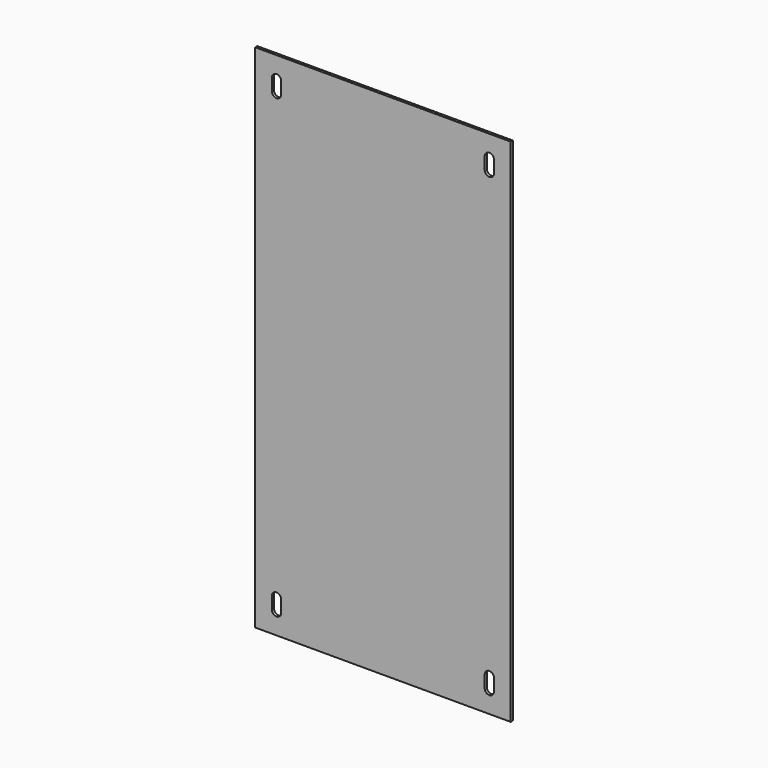
from build123d import *

# Parameters (mm, degrees)
F0_W     = 304.8
F0_H     = 609.6
F1_DEPTH = 3.175


with BuildPart() as f1:
    # F0 (on Front) → F1 (new body)
    with BuildSketch(Plane.XZ):
        Rectangle(F0_W, F0_H)
        with BuildLine():
            ThreePointArc((-121.44375, -279.4), (-127, -284.95625), (-132.55625, -279.4))
            Line((-132.55625, -279.4), (-132.55625, -265.1125))
            ThreePointArc((-132.55625, -265.1125), (-127, -259.55625), (-121.44375, -265.1125))
            Line((-121.44375, -265.1125), (-121.44375, -279.4))
        make_face(mode=Mode.SUBTRACT)
        with BuildLine():
            ThreePointArc((132.55625, -279.4), (127, -284.95625), (121.44375, -279.4))
            Line((121.44375, -279.4), (121.44375, -265.1125))
            ThreePointArc((121.44375, -265.1125), (127, -259.55625), (132.55625, -265.1125))
            Line((132.55625, -265.1125), (132.55625, -279.4))
        make_face(mode=Mode.SUBTRACT)
        with BuildLine():
            ThreePointArc((-132.55625, 279.4), (-127, 284.95625), (-121.44375, 279.4))
            Line((-121.44375, 279.4), (-121.44375, 265.1125))
            ThreePointArc((-121.44375, 265.1125), (-127, 259.55625), (-132.55625, 265.1125))
            Line((-132.55625, 265.1125), (-132.55625, 279.4))
        make_face(mode=Mode.SUBTRACT)
        with BuildLine():
            ThreePointArc((121.44375, 279.4), (127, 284.95625), (132.55625, 279.4))
            Line((132.55625, 279.4), (132.55625, 265.1125))
            ThreePointArc((132.55625, 265.1125), (127, 259.55625), (121.44375, 265.1125))
            Line((121.44375, 265.1125), (121.44375, 279.4))
        make_face(mode=Mode.SUBTRACT)
    extrude(amount=F1_DEPTH)


solid = f1.part
